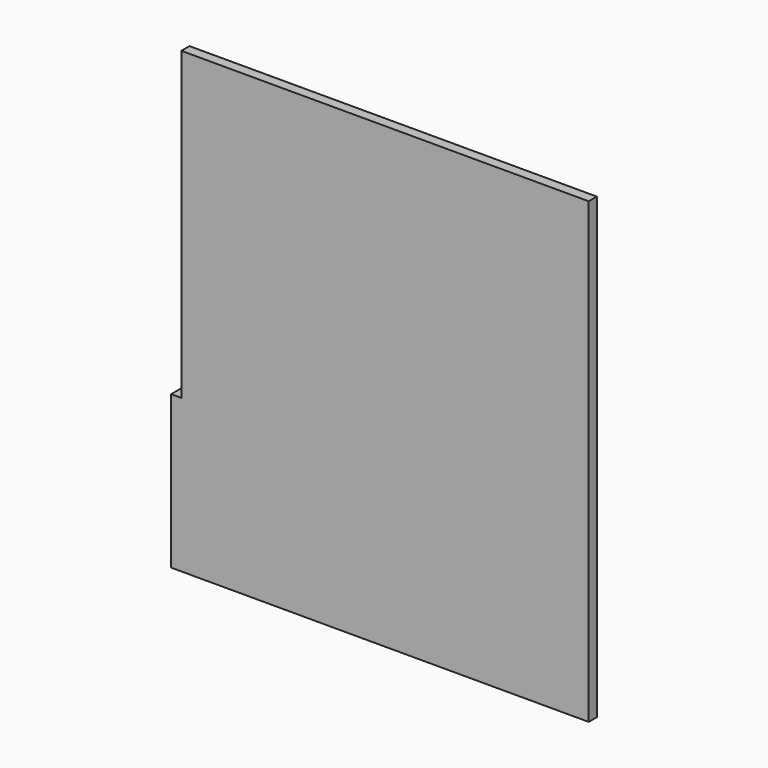
from build123d import *

# Parameters (mm, degrees)
F1_DEPTH = 200
F0_W     = 200
F0_H     = 3000
F2_DEPTH = 2200


with BuildPart() as f1:
    # F0 (on Front) → F1 (new body)
    with BuildSketch(Plane.XZ):
        Polygon((0, 3000), (0, 0), (8000, 0), (8000, 9000), (0, 9000), align=None)
    extrude(amount=-F1_DEPTH)

    # F0 (on Front) → F2 (join)
    with BuildSketch(Plane.XZ):
        with Locations((-100, 1500)):
            Rectangle(F0_W, F0_H)
    extrude(amount=-F2_DEPTH)


solid = f1.part
